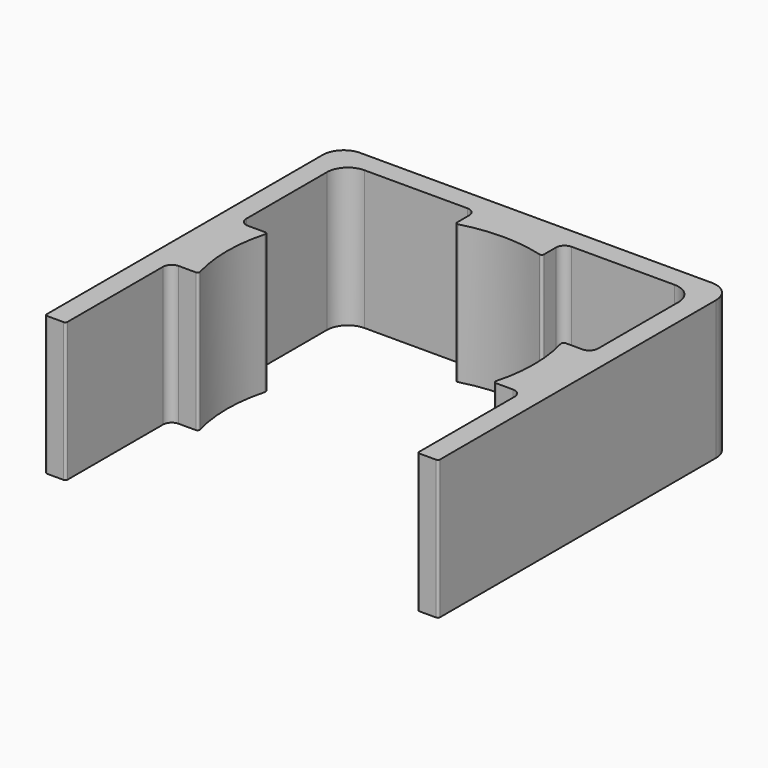
from build123d import *

# Parameters (mm, degrees)
F1_DEPTH = 8


with BuildPart() as f1:
    # F0 (on Top) → F1 (new body)
    with BuildSketch(Plane.XY):
        with BuildLine():
            Line((-3.943679, 11.586344), (-3.943679, -8.288656))
            ThreePointArc((-3.943679, -8.288656), (-3.907067, -8.377044), (-3.818679, -8.413656))
            Line((-3.818679, -8.413656), (-2.868679, -8.413656))
            ThreePointArc((-2.868679, -8.413656), (-2.780291, -8.377044), (-2.743679, -8.288656))
            Line((-2.743679, -8.288656), (-2.743679, -1.413656))
            ThreePointArc((-2.743679, -1.413656), (-2.597232, -1.060103), (-2.243679, -0.913656))
            Line((-2.243679, -0.913656), (-1.25926, -0.913656))
            ThreePointArc((-1.25926, -0.913656), (-1.159846, -0.864432), (-1.13873, -0.755527))
            ThreePointArc((-1.13873, -0.755527), (-1.45472, 1.586344), (-1.13873, 3.928214))
            ThreePointArc((-1.13873, 3.928214), (-1.159846, 4.037119), (-1.25926, 4.086344))
            Line((-1.25926, 4.086344), (-2.243679, 4.086344))
            ThreePointArc((-2.243679, 4.086344), (-2.597232, 4.23279), (-2.743679, 4.586344))
            Line((-2.743679, 4.586344), (-2.743679, 10.386344))
            ThreePointArc((-2.743679, 10.386344), (-2.392207, 11.234872), (-1.543679, 11.586344))
            Line((-1.543679, 11.586344), (4.381321, 11.586344))
            ThreePointArc((4.381321, 11.586344), (4.734874, 11.439897), (4.881321, 11.086344))
            Line((4.881321, 11.086344), (4.881321, 10.226925))
            ThreePointArc((4.881321, 10.226925), (4.930546, 10.127511), (5.03945, 10.106395))
            ThreePointArc((5.03945, 10.106395), (7.381321, 10.422385), (9.723191, 10.106395))
            ThreePointArc((9.723191, 10.106395), (9.832096, 10.127511), (9.881321, 10.226925))
            Line((9.881321, 10.226925), (9.881321, 11.086344))
            ThreePointArc((9.881321, 11.086344), (10.027768, 11.439897), (10.381321, 11.586344))
            Line((10.381321, 11.586344), (16.306321, 11.586344))
            ThreePointArc((16.306321, 11.586344), (17.154849, 11.234872), (17.506321, 10.386344))
            Line((17.506321, 10.386344), (17.506321, 4.586344))
            ThreePointArc((17.506321, 4.586344), (17.359874, 4.23279), (17.006321, 4.086344))
            Line((17.006321, 4.086344), (16.021902, 4.086344))
            ThreePointArc((16.021902, 4.086344), (15.922488, 4.037119), (15.901372, 3.928214))
            ThreePointArc((15.901372, 3.928214), (16.217362, 1.586344), (15.901372, -0.755527))
            ThreePointArc((15.901372, -0.755527), (15.922488, -0.864432), (16.021902, -0.913656))
            Line((16.021902, -0.913656), (17.006321, -0.913656))
            ThreePointArc((17.006321, -0.913656), (17.359874, -1.060103), (17.506321, -1.413656))
            Line((17.506321, -1.413656), (17.506321, -8.288656))
            ThreePointArc((17.506321, -8.288656), (17.542933, -8.377044), (17.631321, -8.413656))
            Line((17.631321, -8.413656), (18.581321, -8.413656))
            ThreePointArc((18.581321, -8.413656), (18.669709, -8.377044), (18.706321, -8.288656))
            Line((18.706321, -8.288656), (18.706321, 11.586344))
            ThreePointArc((18.706321, 11.586344), (18.354849, 12.434872), (17.506321, 12.786344))
            Line((17.506321, 12.786344), (-2.743679, 12.786344))
            ThreePointArc((-2.743679, 12.786344), (-3.592207, 12.434872), (-3.943679, 11.586344))
        make_face()
    extrude(amount=F1_DEPTH)


solid = f1.part
